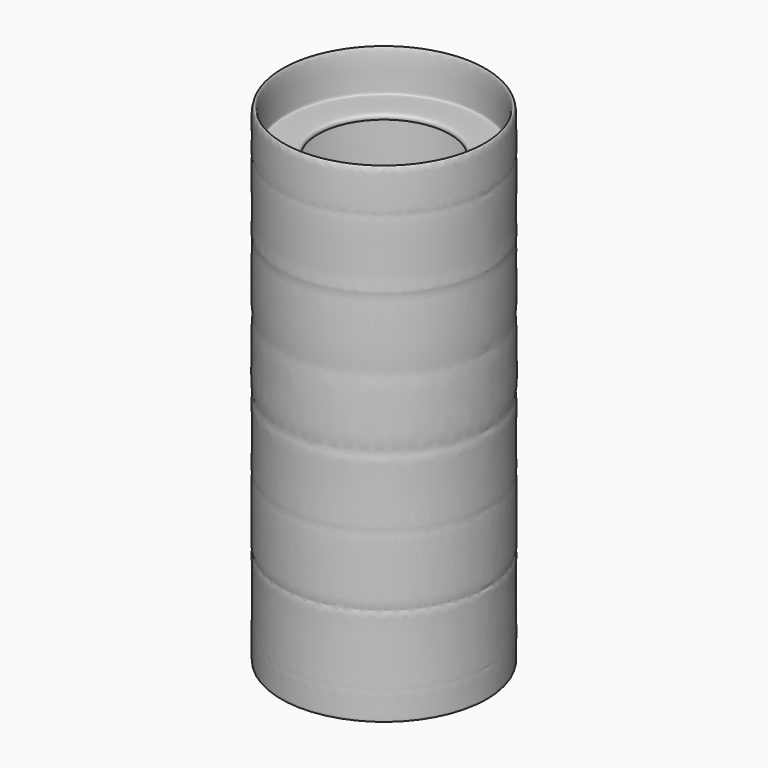
from build123d import *


with BuildPart() as f2:
    # F1 (on Front) → F2 (revolve)
    with BuildSketch(Plane.XZ):
        with BuildLine():
            add(Edge.make_bspline(
                [(76.1843770742, 12.7806579694), (76.0982894867, 9.3602328141), (76.0668693747, 3.7612665492), (76.3119132482, -0.5522210308), (74.2841444022, 0.2041889304), (72.8606468762, -0.6268327871), (73.0849705339, 6.2428399421), (73.0466382531, 11.4628360449), (72.9542864981, 15.1513925136), (73.1405830744, 17.9430641694), (71.4658170654, 18.7061360269), (60.1035227708, 18.6043899502), (52.9067517342, 18.511760073), (49.2322315698, 18.7862797312), (49.4223932805, 21.9167059912), (51.8105380599, 22.0413909368), (71.5556346662, 21.7257896991), (73.1181084055, 22.1165774833), (72.8877515238, 26.3966400315), (72.9381042275, 46.8786262668), (72.6679676376, 65.6037731025), (73.3377949285, 69.538327623), (70.8396306323, 69.173419901), (51.7819704823, 69.8281688532), (48.1202388163, 69.2750589261), (47.8540791943, 74.3917594664), (52.4548587831, 73.987368137), (70.6543402027, 73.6692126598), (73.0381788271, 74.072577284), (72.9318069893, 77.0216473305), (73.0600993465, 95.9014259354), (72.6322111929, 114.9776619127), (73.3186301377, 120.439495426), (69.2227236319, 121.0254955135), (51.1802356515, 120.6899260337), (48.7109112699, 121.5090721309), (48.8849236142, 124.5105885063), (51.2187446165, 125.5079633194), (70.1787056843, 124.9647597727), (73.5199551135, 126.11105834), (72.2837604526, 133.5926671834), (72.7654004427, 167.9061638488), (72.4615713069, 171.7557543554), (68.8248188378, 172.117849654), (52.227900922, 171.7624302989), (48.3356950733, 172.749647601), (49.3111410548, 175.9225444012), (51.1148883018, 176.4009197127), (68.655091142, 176.2827319289), (72.8679368371, 175.5381081312), (73.0060837371, 182.7896920334), (73.1360941799, 200.2458363954), (71.9934516324, 217.7320397996), (72.6955435395, 223.4532071183), (68.2788896733, 223.8334483695), (51.5223343069, 222.4246209438), (47.4297068297, 223.7886870341), (48.8282165528, 228.6810154445), (53.151760279, 227.8467247067), (67.7348624497, 228.7739903313), (72.6729768213, 228.0395677121), (72.7850708863, 234.1098053521), (72.6472662004, 252.1210454018), (73.3859542629, 269.8009532909), (72.4939967027, 273.931120185), (69.0860202534, 274.259269065), (50.362215207, 273.7896579497), (47.223173228, 275.0009691347), (47.5092976767, 280.1222723808), (53.3894121821, 279.4029418118), (66.8163146618, 280.2896890226), (73.5907613236, 278.7084558242), (72.3556922773, 289.3791254062), (73.1142672004, 302.9493806375), (72.7789727888, 320.9509437684), (73.1137087086, 325.6693488794), (67.7486170808, 325.2627455134), (54.5926712397, 325.3938068277), (47.8213890874, 325.4805452278), (48.0546751976, 330.1041806174), (53.5145546918, 330.6608001205), (71.3821103123, 329.6917015997), (73.1483690971, 330.9390983232), (72.7858552296, 340.8965732221), (72.9930712622, 352.185506025), (73.0084172897, 357.3083756673), (74.2188996646, 361.5541959291), (76.7803270073, 357.7916225883), (75.7539110059, 344.0711463557), (76.6690798461, 330.3436299055), (75.559891978, 328.3102153268), (76.5686818041, 325.9236250831), (76.0474291239, 320.0313371342), (76.6189425607, 313.4783447932), (75.6605242436, 282.6021264882), (76.6470598331, 278.7561826491), (75.6306187905, 276.7639593613), (76.3087961052, 271.3493049452), (76.1360075388, 253.0440238928), (76.698225145, 231.1485433814), (75.2696482173, 225.9056385066), (76.4327347234, 221.7226061505), (76.2776465271, 202.4489278141), (76.7911325067, 177.6052805612), (75.2647301811, 174.5543109984), (76.3053352457, 171.7760917966), (76.3965615407, 166.8533777248), (75.8727922275, 150.6164218446), (76.2219737713, 127.5785389669), (76.2793059619, 125.1484271111), (75.6360961652, 122.815909715), (76.7891581223, 120.9260664168), (76.0695949452, 79.5811397463), (76.6156974895, 74.8666755358), (75.3559614291, 71.8459348525), (76.431040826, 70.5490121633), (76.0345530957, 65.1510926619), (76.1586910888, 54.3681733929), (76.0800706776, 22.5957301047), (76.2684675796, 21.5913332973), (75.8297305482, 20.4499182552), (76.4198071869, 19.4481945559), (76.2564282534, 15.6433896647), (76.1843770742, 12.7806579694)],
                knots=[0, 0, 0, 0, 0.0097982577, 0.0153495279, 0.0191661118, 0.0220999477, 0.029605589, 0.0373045979, 0.0433602709, 0.0482305236, 0.0518704595, 0.0624174107, 0.0713738637, 0.0766365998, 0.081129508, 0.0858276442, 0.0998735992, 0.1033760745, 0.1089044929, 0.1235174599, 0.1374624898, 0.1425187387, 0.1467272236, 0.1606444424, 0.1662873619, 0.1719514353, 0.1781802304, 0.1918057314, 0.1960877999, 0.2005212277, 0.214299918, 0.2285509384, 0.2348256198, 0.2406427269, 0.2541561088, 0.258781396, 0.2634243058, 0.2681812031, 0.2819355291, 0.2871278285, 0.2953954873, 0.314069203, 0.3195293938, 0.324977363, 0.3380489659, 0.3436628287, 0.3484103374, 0.352633618, 0.365868401, 0.3717549098, 0.379043721, 0.3926734888, 0.4061015711, 0.412596338, 0.4184609618, 0.4316007629, 0.4373728489, 0.4431899769, 0.4493962961, 0.4616440493, 0.4679110062, 0.4744431674, 0.4882688762, 0.5016772949, 0.5071878542, 0.5126579975, 0.5263627028, 0.5317557143, 0.5375734401, 0.5445440786, 0.5564741623, 0.563482173, 0.5723619817, 0.5847680483, 0.5981363061, 0.6038862251, 0.6103057775, 0.6221812463, 0.6297222426, 0.634853375, 0.6420161872, 0.6553316852, 0.6592526614, 0.6688193168, 0.6797563869, 0.6871061652, 0.6924496886, 0.6972845859, 0.7093907945, 0.7210523365, 0.7253217969, 0.7300599301, 0.7372771868, 0.7461044929, 0.7635062669, 0.7696209655, 0.773703702, 0.7805456509, 0.7943652942, 0.8092539143, 0.8160829884, 0.8220265109, 0.836142007, 0.8518913935, 0.8571780066, 0.862104307, 0.8687237875, 0.8818913588, 0.8969266248, 0.9017065394, 0.9059741062, 0.9107984727, 0.930859578, 0.9384784274, 0.9433952815, 0.9471256271, 0.9536868537, 0.9650938481, 0.9825175971, 0.9856009509, 0.9886748915, 0.9917993285, 1, 1, 1, 1], degree=3))
        make_face()
    revolve(axis=Axis((0, 0, 177.8), (0, 0, 1)))


solid = f2.part
